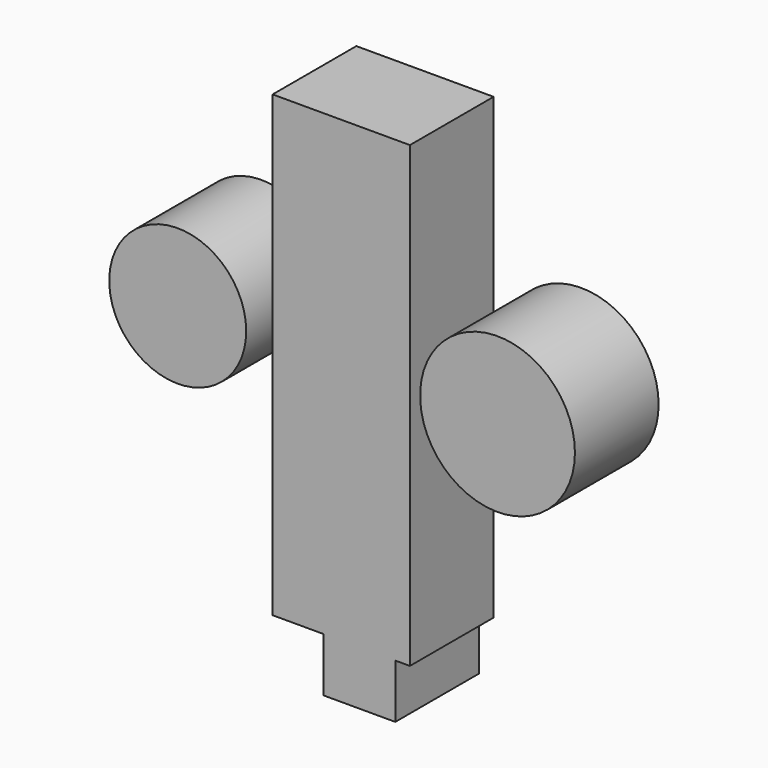
from build123d import *

# Parameters (mm, degrees)
F0_W     = 33.326064
F0_H     = 111.323253
F1_DEPTH = 25.4
F2_R     = 16.624166
F2_R_2   = 18.793996
F3_DEPTH = 25.4
F4_W     = 6.633144
F4_H     = 0.709068
F5_DEPTH = 25.4


with BuildPart() as f1:
    # F0 (on Front) → F1 (new body)
    with BuildSketch(Plane.XZ):
        with Locations((4.357367, -2.953269)):
            Rectangle(F0_W, F0_H)
    extrude(amount=F1_DEPTH)

    # F4 (on Front) → F5 (join)
    with BuildSketch(Plane.XZ):
        Polygon((17.475074, -2.598734), (0, -2.598734), (0, -56.842227), (0, -57.551295), (0, -71.732596), (17.475074, -71.732596), align=None)
        with Locations((-3.316572, -57.196761)):
            Rectangle(F4_W, F4_H)
    extrude(amount=F5_DEPTH)


with BuildPart() as f3:
    # F2 (on Front) → F3 (new body)
    with BuildSketch(Plane.XZ):
        with Locations((-35.350289, 0)):
            Circle(F2_R)
        with Locations((42.29236, 0)):
            Circle(F2_R_2)
    extrude(amount=F3_DEPTH)


solid = Compound([f1.part, f3.part])
